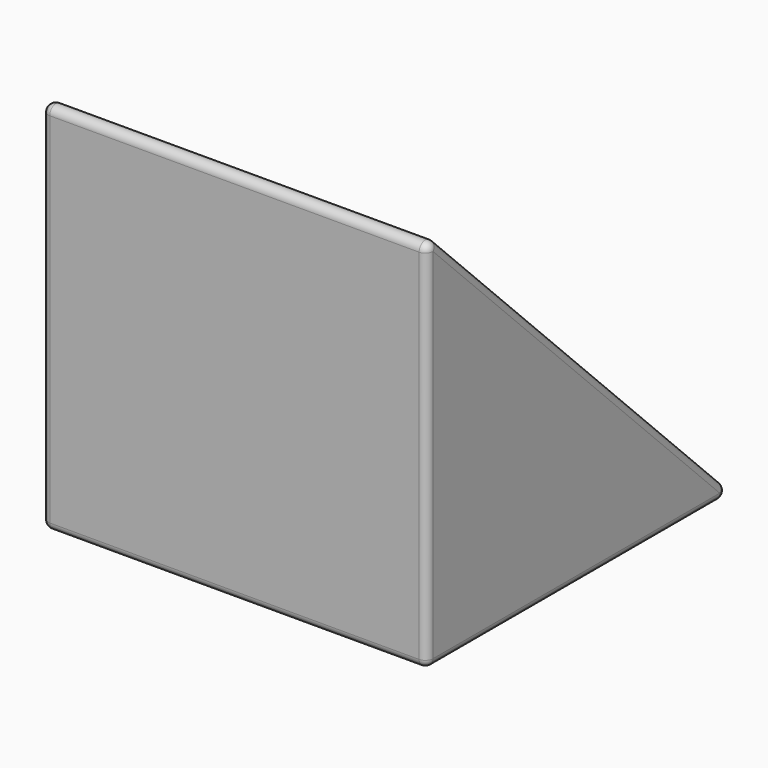
from build123d import *

# Parameters (mm, degrees)
F0_W     = 25.4
F0_H     = 25.4
F1_DEPTH = 25.4
F3_DEPTH = 25.4
F4_R     = 0.508


with BuildPart() as f1:
    # F0 (on Front) → F1 (new body)
    with BuildSketch(Plane.XZ):
        with Locations((12.7, 12.7)):
            Rectangle(F0_W, F0_H)
    extrude(amount=F1_DEPTH)

    # F2 (on face) → F3 (cut)
    with BuildSketch(Plane.YZ.offset(25.4)):
        Polygon((0, 25.4), (-25.4, 25.4), (0, 0), align=None)
    extrude(amount=-F3_DEPTH, mode=Mode.SUBTRACT)

    # F4
    f4_edges = [f1.edges().sort_by_distance(p)[0] for p in [
        (0, -25.4, 12.7),
        (12.7, -25.4, 0),
        (25.4, -25.4, 12.7),
        (12.7, -25.4, 25.4),
        (25.4, -12.7, 12.7),
        (25.4, -12.7, 0),
        (12.7, 0, 0),
        (0, -12.7, 12.7),
        (0, -12.7, 0),
    ]]
    fillet(f4_edges, radius=F4_R)


solid = f1.part
